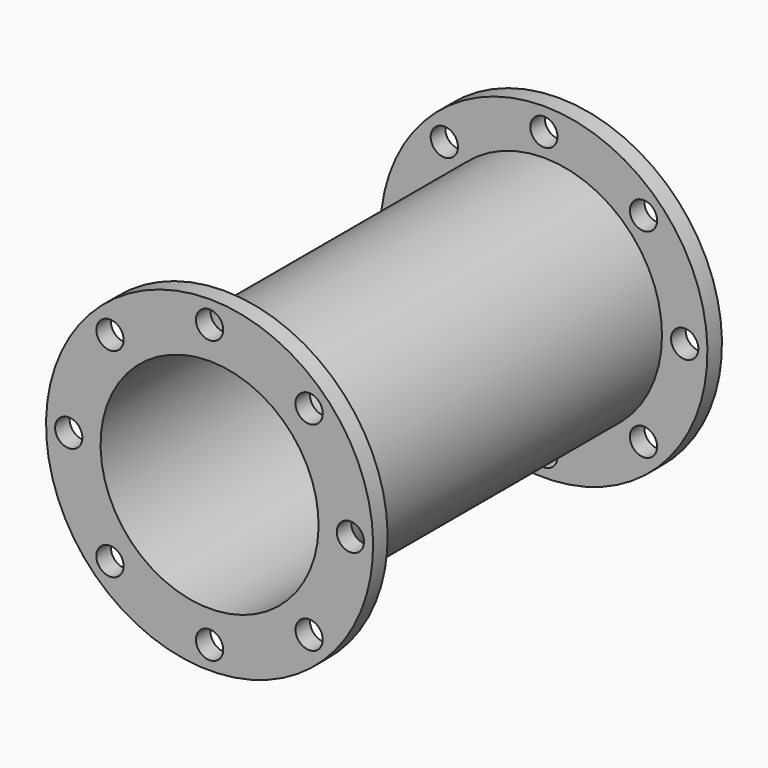
from build123d import *

# Parameters (mm, degrees)
F3_R     = 9.525
F4_DEPTH = 304.801


with BuildPart() as f1:
    # F0 (on Right) → F1 (revolve)
    with BuildSketch(Plane.YZ):
        Polygon((0, 76.2), (0, 114.3), (-12.7, 114.3), (-12.7, 82.55), (-292.1, 82.55), (-292.1, 114.3), (-304.8, 114.3), (-304.8, 76.2), align=None)
    revolve(axis=Axis((0, 69.986956, 0), (0, 1, 0)))

    # F3 (on offset) → F4 (cut, through all)
    with BuildSketch(Plane.XZ.offset(304.8)):
        with Locations((0, 98.425)):
            Circle(F3_R)
        with Locations((-69.596985, 69.596985)):
            Circle(F3_R)
        with Locations((-98.425, 0)):
            Circle(F3_R)
        with Locations((-69.596985, -69.596985)):
            Circle(F3_R)
        with Locations((0, -98.425)):
            Circle(F3_R)
        with Locations((69.596985, -69.596985)):
            Circle(F3_R)
        with Locations((98.425, 0)):
            Circle(F3_R)
        with Locations((69.596985, 69.596985)):
            Circle(F3_R)
    extrude(amount=-F4_DEPTH, mode=Mode.SUBTRACT)


solid = f1.part
